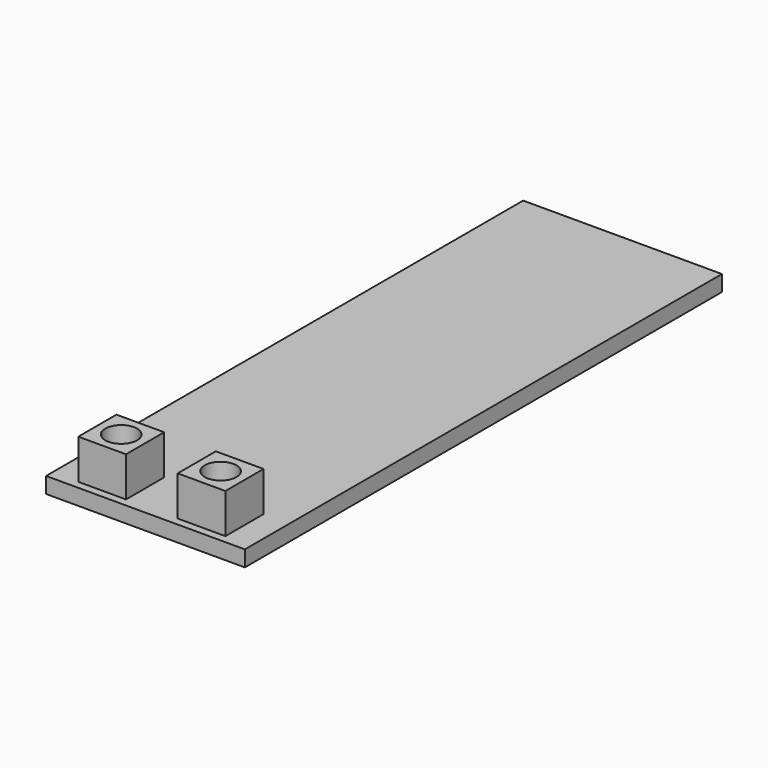
from build123d import *

# Parameters (mm, degrees)
F0_W     = 25
F0_H     = 75
F3_DEPTH = 2
F4_DEPTH = 1
F7_DEPTH = 7
F6_W     = 6
F6_H     = 6
F6_R     = 2
F8_DEPTH = 5


with BuildPart() as f3:
    # F0 (on Top) → F3 (new body)
    with BuildSketch(Plane.XY):
        with Locations((-31.788486, -12.391831)):
            Rectangle(F0_W, F0_H)
    extrude(amount=F3_DEPTH)

    # F1 (on face) → F4 (cut)
    with BuildSketch(Plane.XY):
        with BuildLine():
            ThreePointArc((-27.538486, -45.891831), (-25.538486, -47.891831), (-23.538486, -45.891831))
            ThreePointArc((-23.538486, -45.891831), (-25.538486, -43.891831), (-27.538486, -45.891831))
        make_face()
        with BuildLine():
            ThreePointArc((-27.538486, -45.891831), (-25.538486, -43.891831), (-23.538486, -45.891831))
            Line((-23.538486, -45.891831), (-23.288486, -43.891831))
            Line((-23.288486, -43.891831), (-23.288486, 15.108169))
            ThreePointArc((-23.288486, 15.108169), (-31.788486, 23.608169), (-40.288486, 15.108169))
            Line((-40.288486, 15.108169), (-40.288486, -43.891831))
            Line((-40.288486, -43.891831), (-40.038486, -45.891831))
            ThreePointArc((-40.038486, -45.891831), (-38.038486, -43.891831), (-36.038486, -45.891831))
            Line((-36.038486, -45.891831), (-35.788486, -43.891831))
            Line((-35.788486, -43.891831), (-35.788486, 15.108169))
            ThreePointArc((-35.788486, 15.108169), (-31.788486, 19.108169), (-27.788486, 15.108169))
            Line((-27.788486, 15.108169), (-27.788486, -43.891831))
            Line((-27.788486, -43.891831), (-27.538486, -45.891831))
        make_face()
        with BuildLine():
            ThreePointArc((-36.038486, -45.891831), (-38.038486, -43.891831), (-40.038486, -45.891831))
            ThreePointArc((-40.038486, -45.891831), (-38.038486, -47.891831), (-36.038486, -45.891831))
        make_face()
    extrude(amount=F4_DEPTH, mode=Mode.SUBTRACT)

    # F1 (on face) → F7 (cut)
    with BuildSketch(Plane.XY):
        with BuildLine():
            ThreePointArc((-36.038486, -45.891831), (-38.038486, -43.891831), (-40.038486, -45.891831))
            ThreePointArc((-40.038486, -45.891831), (-38.038486, -47.891831), (-36.038486, -45.891831))
        make_face()
        with BuildLine():
            ThreePointArc((-27.538486, -45.891831), (-25.538486, -47.891831), (-23.538486, -45.891831))
            ThreePointArc((-23.538486, -45.891831), (-25.538486, -43.891831), (-27.538486, -45.891831))
        make_face()
    extrude(amount=F7_DEPTH, mode=Mode.SUBTRACT)

    # F6 (on face) → F8 (join)
    with BuildSketch(Plane.XY.offset(2)):
        with Locations((-38.038486, -45.891831)):
            Rectangle(F6_W, F6_H)
        with Locations((-38.038486, -45.891831)):
            Circle(F6_R, mode=Mode.SUBTRACT)
        with Locations((-25.538486, -45.891831)):
            Rectangle(F6_W, F6_H)
        with Locations((-25.538486, -45.891831)):
            Circle(F6_R, mode=Mode.SUBTRACT)
    extrude(amount=F8_DEPTH)


solid = f3.part
